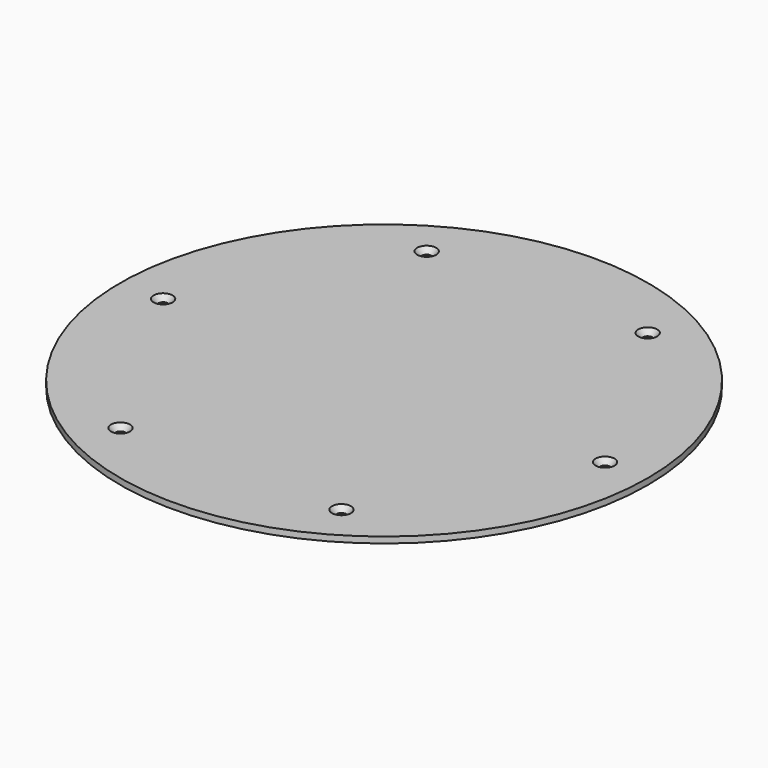
from build123d import *

# Parameters (mm, degrees)
F0_R           = 136.525
F1_DEPTH       = 3.175
F3_D           = 4.9784
F3_CSINK_D     = 9.8298
F3_CSINK_ANGLE = 82


with BuildPart() as f1:
    # F0 (on Top) → F1 (new body)
    with BuildSketch(Plane.XY):
        Circle(F0_R)
    extrude(amount=-F1_DEPTH)

    # F3 (through all)
    with Locations(Plane.XY):
        with Locations((-114.3, 0), (-57.15, 98.986704), (57.15, 98.986704), (114.3, 0), (57.15, -98.986704), (-57.15, -98.986704)):
            CounterSinkHole(F3_D / 2, F3_CSINK_D / 2, counter_sink_angle=F3_CSINK_ANGLE)


solid = f1.part
